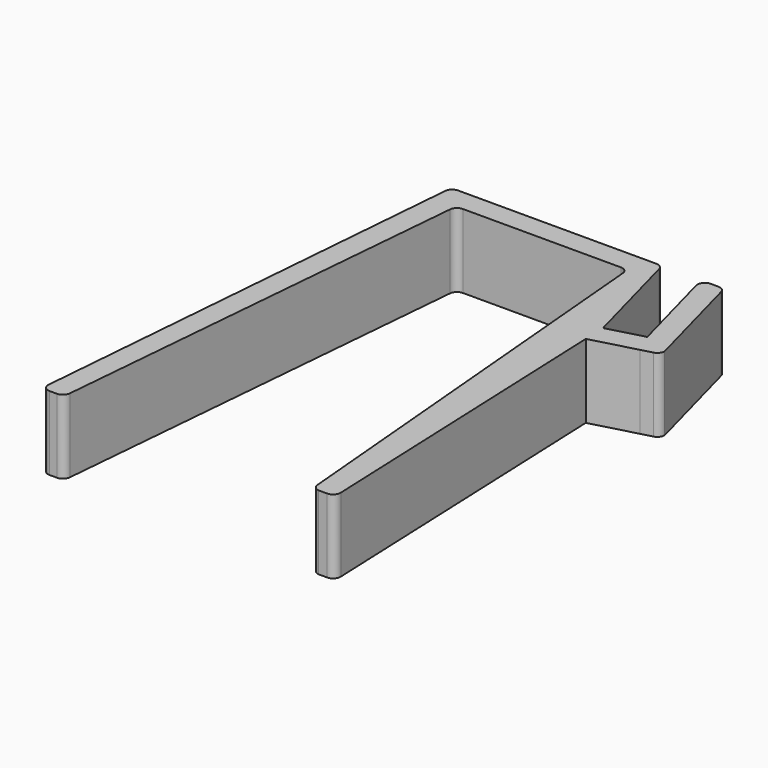
from build123d import *

# Parameters (mm, degrees)
F1_DEPTH = 12.7


with BuildPart() as f1:
    # F0 (on Top) → F1 (new body)
    with BuildSketch(Plane.XY):
        with BuildLine():
            ThreePointArc((-14.433566, 29.576561), (-14.026399, 30.402215), (-13.168399, 30.735873))
            Line((-13.168399, 30.735873), (13.96812, 30.735873))
            ThreePointArc((13.96812, 30.735873), (14.826119, 30.402215), (15.233287, 29.576561))
            Line((15.233287, 29.576561), (21.672975, -44.029412))
            ThreePointArc((21.672975, -44.029412), (22.011711, -44.787415), (22.74638, -45.174163))
            Line((22.74638, -45.174163), (24.260408, -45.174163))
            ThreePointArc((24.260408, -45.174163), (25.176504, -44.783746), (25.529358, -43.852536))
            Line((25.529358, -43.852536), (23.274442, 11.57156))
            Line((23.274442, 11.57156), (30.972435, 13.634231))
            Line((30.972435, 13.634231), (32.855034, 14.138672))
            ThreePointArc((32.855034, 14.138672), (33.533893, 14.592271), (33.796334, 15.365398))
            Line((33.796334, 15.365398), (28.913047, 33.590075))
            ThreePointArc((28.913047, 33.590075), (28.459448, 34.268934), (27.686321, 34.531375))
            Line((27.686321, 34.531375), (26.37152, 34.531375))
            ThreePointArc((26.37152, 34.531375), (25.363961, 34.034502), (25.144794, 32.932675))
            Line((25.144794, 32.932675), (29.371674, 17.157746))
            Line((29.371674, 17.157746), (23.115372, 15.481375))
            Line((23.115372, 15.481375), (18.26316, 33.590075))
            ThreePointArc((18.26316, 33.590075), (17.809562, 34.268934), (17.036435, 34.531375))
            Line((17.036435, 34.531375), (-17.021739, 34.531375))
            ThreePointArc((-17.021739, 34.531375), (-17.881974, 34.195664), (-18.287421, 33.366013))
            Line((-18.287421, 33.366013), (-24.668649, -43.820158))
            ThreePointArc((-24.668649, -43.820158), (-24.333586, -44.788999), (-23.392157, -45.19475))
            Line((-23.392157, -45.19475), (-22.127202, -45.183983))
            ThreePointArc((-22.127202, -45.183983), (-21.276035, -44.846712), (-20.872844, -44.024717))
            Line((-20.872844, -44.024717), (-14.433566, 29.576561))
        make_face()
    extrude(amount=F1_DEPTH)


solid = f1.part
